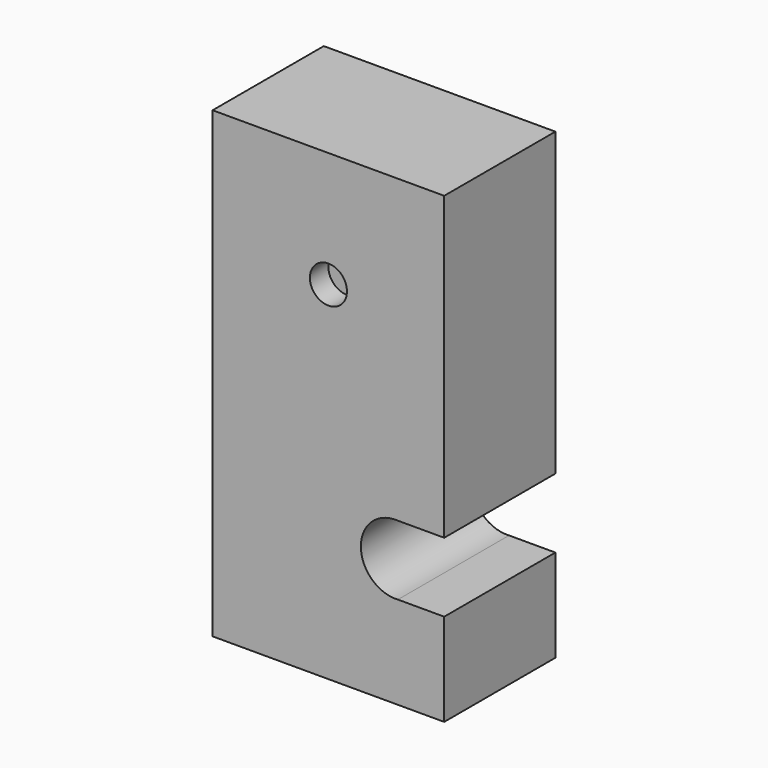
from build123d import *

# Parameters (mm, degrees)
F1_DEPTH = 15
F2_R     = 4
F3_DEPTH = 5


with BuildPart() as f1:
    # F0 (on Front) → F1 (new body, symmetric)
    with BuildSketch(Plane.XZ):
        with BuildLine():
            Line((0, 50), (-50, 50))
            Line((-50, 50), (-50, -50))
            Line((-50, -50), (0, -50))
            Line((0, -50), (0, -30))
            Line((0, -30), (-10, -30))
            ThreePointArc((-10, -30), (-18, -22.5), (-10, -15))
            Line((-10, -15), (0, -15))
            Line((0, -15), (0, 50))
        make_face()
    extrude(amount=F1_DEPTH, both=True)

    # F2 (on face) → F3 (cut)
    with BuildSketch(Plane.XZ.offset(15)):
        with Locations((-25, 25)):
            Circle(F2_R)
    extrude(amount=-F3_DEPTH, mode=Mode.SUBTRACT)


solid = f1.part
